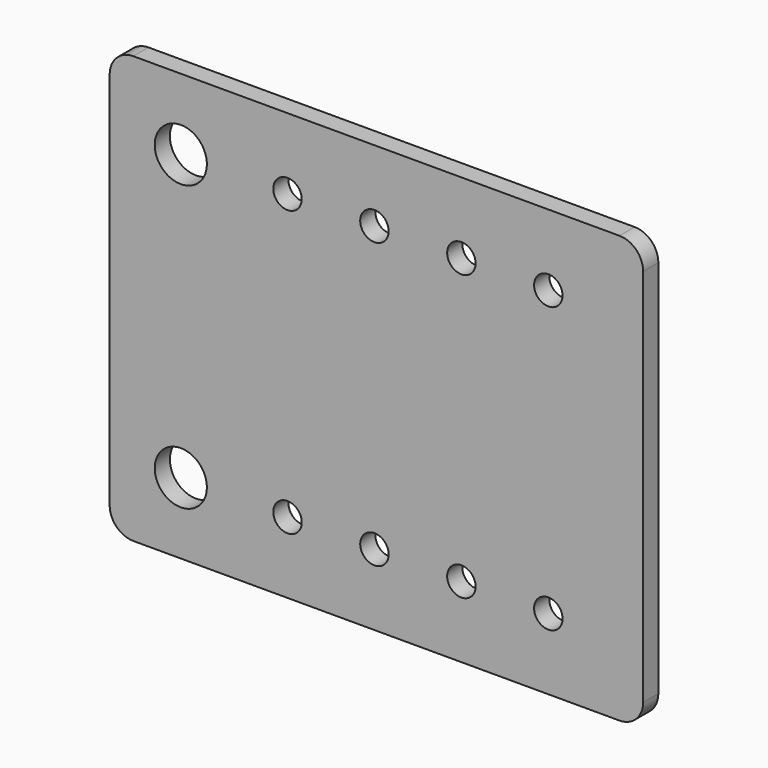
from build123d import *

# Parameters (mm, degrees)
SKETCH_W            = 22.5
SKETCH_H            = 18
PAD_DEPTH           = 0.8
SKETCH001_R         = 1.1
POCKET_DEPTH        = 5
FILLET_R            = 1
SKETCH002_R         = 0.6
POCKET001_DEPTH     = 5
LINEARPATTERN_COUNT = 4
LINEARPATTERN_PITCH = 3.666667


with BuildPart() as part:
    # Sketch → Pad (new body)
    with BuildSketch(Plane.XZ):
        with Locations((11.25, 9)):
            Rectangle(SKETCH_W, SKETCH_H)
    extrude(amount=PAD_DEPTH)

    # Sketch001 (on Face6 of Pad) → Pocket (cut)
    with BuildSketch(Plane.XZ.offset(0.8)):
        with Locations((3, 15)):
            Circle(SKETCH001_R)
        with Locations((3, 3)):
            Circle(SKETCH001_R)
    extrude(amount=-POCKET_DEPTH, mode=Mode.SUBTRACT)

    # Fillet
    fillet_edges = [part.edges().sort_by_distance(p)[0] for p in [
        (0, -0.4, 18),
        (22.5, -0.4, 18),
        (22.5, -0.4, 0),
        (0, -0.4, 0),
    ]]
    fillet(fillet_edges, radius=FILLET_R)

    # Sketch002 (on Face5 of Fillet) → Pocket001 (cut)
    with BuildSketch(Plane.XZ.offset(0.8)):
        with Locations((7.5, 15)):
            Circle(SKETCH002_R)
        with Locations((7.5, 3)):
            Circle(SKETCH002_R)
    pocket001 = extrude(amount=-POCKET001_DEPTH, mode=Mode.SUBTRACT)

    # LinearPattern: Pocket001 ×4
    with Locations(*[(i * LINEARPATTERN_PITCH, 0, 0) for i in range(1, LINEARPATTERN_COUNT)]):
        add(pocket001, mode=Mode.SUBTRACT)


solid = part.part
